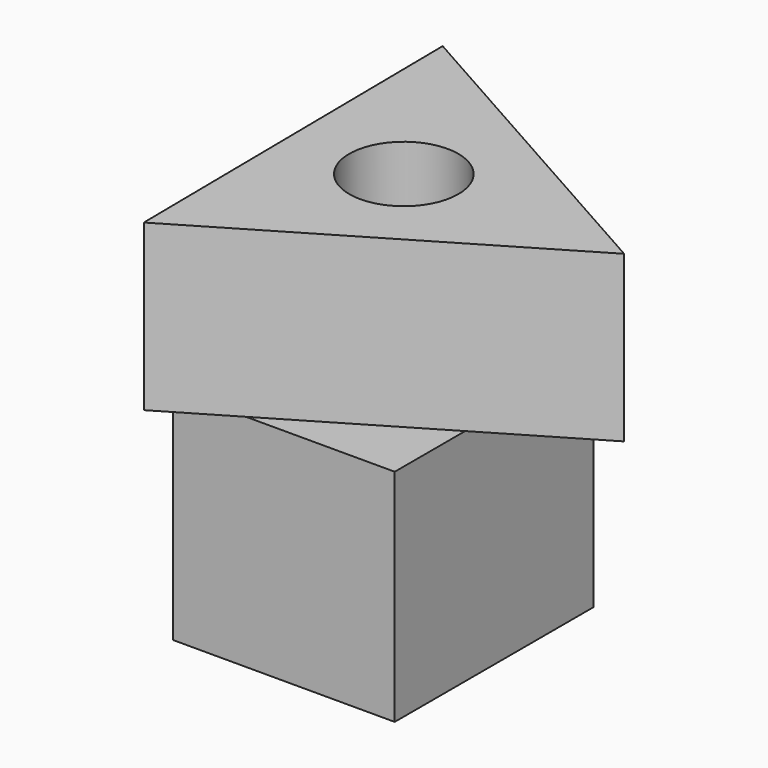
from build123d import *

# Parameters (mm, degrees)
F0_W     = 102.221594
F0_H     = 114.750422
F1_DEPTH = 101.6
F3_DEPTH = 76.2
F4_R     = 25.169937
F5_DEPTH = 147.32


with BuildPart() as f1:
    # F0 (on Top) → F1 (new body)
    with BuildSketch(Plane.XY):
        Rectangle(F0_W, F0_H)
    extrude(amount=F1_DEPTH)

    # F2 (on face) → F3 (join)
    with BuildSketch(Plane.XY.offset(101.6)):
        Polygon((-49.475546, -76.307332), (100.875381, 12.719793), (-51.399834, 98.413953), align=None)
    extrude(amount=F3_DEPTH)

    # F4 (on face) → F5 (cut)
    with BuildSketch(Plane.XY.offset(177.8)):
        with Locations((0, 11.758941)):
            Circle(F4_R)
    extrude(amount=-F5_DEPTH, mode=Mode.SUBTRACT)


solid = f1.part
